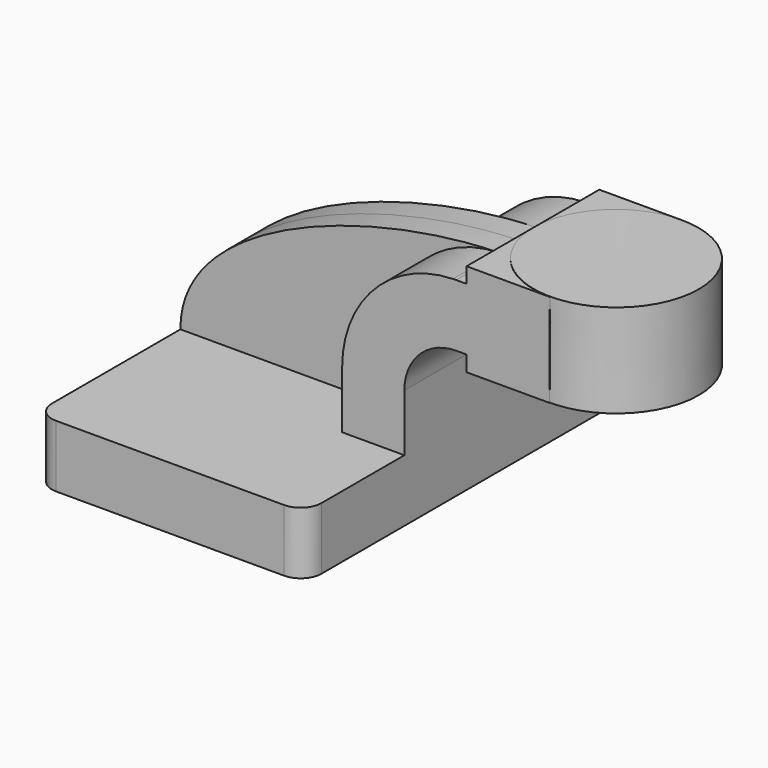
from build123d import *

# Parameters (mm, degrees)
F1_DEPTH = 63.5
F2_DEPTH = 25.4
F3_DEPTH = 7.9375
F5_R     = 6.35
F6_R     = 6.35


with BuildPart() as f1:
    # F0 (on Front) → F1 (new body, symmetric)
    with BuildSketch(Plane.XZ):
        Polygon((22.225, 9.525), (-41.275, 9.525), (-41.275, -9.525), (41.275, -9.525), (41.275, 9.525), align=None)
    extrude(amount=F1_DEPTH, both=True)

    # F0 (on Front) → F2 (join, symmetric)
    with BuildSketch(Plane.XZ):
        Polygon((85.739969867, 42.8752), (60.325, 42.8752), (60.325, 38.1), (85.725, 38.1), align=None)
        with BuildLine():
            Line((22.225, 27.0002), (22.225, 9.525))
            Line((22.225, 9.525), (41.275, 9.525))
            Line((41.275, 9.525), (41.275, 27.0002))
            ThreePointArc((41.275, 27.0002), (45.9246798487, 38.2255201513), (57.15, 42.8752))
            Line((57.15, 42.8752), (60.325, 42.8752))
            Line((60.325, 42.8752), (60.325, 61.9252))
            Line((60.325, 61.9252), (57.15, 61.9252))
            add(Edge.make_bspline(
                [(56.1875558467, 61.9119362251), (56.509726576, 61.9176313259), (56.8305560447, 61.9220536557), (57.15, 61.9252)],
                knots=[110.5915947466, 110.5915947466, 110.5915947466, 110.5915947466, 111.5045361635, 111.5045361635, 111.5045361635, 111.5045361635], degree=3))
            ThreePointArc((56.1875558467, 61.9119362251), (32.1163327991, 51.3532517897), (22.225, 27.0002))
        make_face()
        Polygon((85.7996900812, 61.9252), (60.325, 61.9252), (60.325, 42.8752), (85.739969867, 42.8752), align=None)
        Polygon((60.325, 66.675), (60.325, 61.9252), (85.7996900812, 61.9252), (85.8145803213, 66.675), align=None)
    extrude(amount=F2_DEPTH, both=True)

    # F0 (on Front) → F3 (join, symmetric)
    with BuildSketch(Plane.XZ):
        with BuildLine():
            add(Edge.make_bspline(
                [(-41.275, 9.525), (-41.5485716533, 41.8550857499), (17.1605448387, 61.2220449946), (56.1875558467, 61.9119362251)],
                knots=[0, 0, 0, 0, 110.5915947466, 110.5915947466, 110.5915947466, 110.5915947466], degree=3))
            Line((-41.275, 9.525), (22.225, 9.525))
            Line((22.225, 9.525), (22.225, 27.0002))
            ThreePointArc((22.225, 27.0002), (32.1163327991, 51.3532517897), (56.1875558467, 61.9119362251))
        make_face()
    extrude(amount=F3_DEPTH, both=True)

    # F5
    f5_edges = [f1.edges().sort_by_distance(p)[0] for p in [
        (41.275, -63.5, 0),
        (41.275, 63.5, 0),
    ]]
    fillet(f5_edges, radius=F5_R)

    # F6
    f6_edges = [f1.edges().sort_by_distance(p)[0] for p in [
        (-41.275, -63.5, 0),
        (-41.275, 63.5, 0),
    ]]
    fillet(f6_edges, radius=F6_R)


with BuildPart() as f4:
    # F0 (on Front) → F4 (revolve)
    with BuildSketch(Plane.XZ):
        Polygon((85.8145803213, 66.675), (85.7996900812, 61.9252), (85.739969867, 42.8752), (85.725, 38.1), (111.125, 38.1), (111.125, 66.675), align=None)
    revolve(axis=Axis((85.7697901607, 0, 52.3875), (0.003134904, 0, 0.9999950862)))


solid = Compound([f1.part, f4.part])
